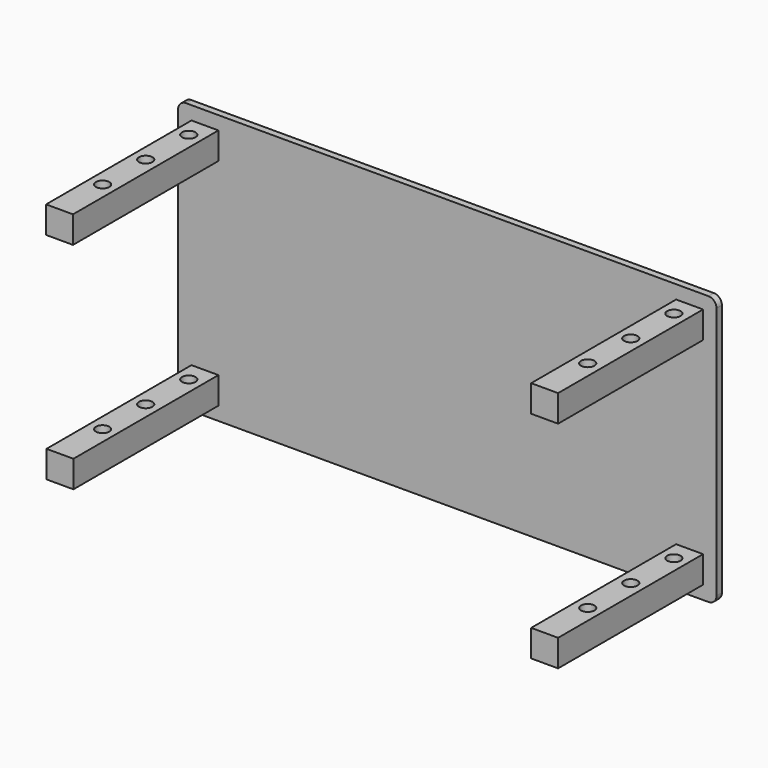
from build123d import *

# Parameters (mm, degrees)
F0_W      = 2000
F0_H      = 1000
F1_DEPTH  = 25
F2_W      = 100
F2_H      = 100
F3_DEPTH  = 700
F5_W      = 100
F5_H      = 100
F6_DEPTH  = 673
F7_D      = 50
F8_R      = 25
F9_DEPTH  = 25
F9_FACE_R = 25
F10_DEPTH = 975.001
F11_R     = 30


with BuildPart() as f1:
    # F0 (on Front) → F1 (new body)
    with BuildSketch(Plane.XZ):
        with Locations((1.290835, 11.492619)):
            Rectangle(F0_W, F0_H)
    extrude(amount=F1_DEPTH)

    # F2 (on Front) → F3 (join)
    with BuildSketch(Plane.XZ):
        with Locations((-898.709165, 411.492619)):
            Rectangle(F2_W, F2_H)
    extrude(amount=F3_DEPTH)

    # F5 (on face) → F6 (join)
    with BuildSketch(Plane.XZ.offset(25)):
        with Locations((-898.709165, -388.507381)):
            Rectangle(F5_W, F5_H)
        with Locations((901.290835, -388.507381)):
            Rectangle(F5_W, F5_H)
        with Locations((901.290835, 411.492619)):
            Rectangle(F5_W, F5_H)
    extrude(amount=F6_DEPTH)

    # F7 (through all)
    with Locations(Plane.XY.offset(461.492619)):
        with Locations((-898.709165, -500)):
            Hole(F7_D / 2)

    # F8 (on face) → F9 (join)
    with BuildSketch(Plane.XY.offset(461.492619)):
        with Locations((-898.709165, -300)):
            Circle(F8_R)
        with Locations((-898.709165, -100)):
            Circle(F8_R)
        with Locations((-898.709165, -500)):
            Circle(F8_R)
        with Locations((901.290835, -498)):
            Circle(F8_R)
        with Locations((901.290835, -298)):
            Circle(F8_R)
        with Locations((901.290835, -98)):
            Circle(F8_R)
    extrude(amount=F9_DEPTH)

    # F9_face (on face) → F10 (cut, through all)
    with BuildSketch(Plane(origin=(-898.709165, -300, 486.492619), x_dir=(1, 0, 0), z_dir=(0, 0, 1))):
        Circle(F9_FACE_R)
        with Locations((0, 200)):
            Circle(F9_FACE_R)
        with Locations((0, -200)):
            Circle(F9_FACE_R)
        with Locations((1800, 202)):
            Circle(F9_FACE_R)
        with Locations((1800, 2)):
            Circle(F9_FACE_R)
        with Locations((1800, -198)):
            Circle(F9_FACE_R)
    extrude(amount=-F10_DEPTH, mode=Mode.SUBTRACT)

    # F11
    f11_edges = [f1.edges().sort_by_distance(p)[0] for p in [
        (-998.709165, -12.5, 511.492619),
        (-998.709165, -12.5, -488.507381),
        (1001.290835, -12.5, -488.507381),
        (1001.290835, -12.5, 511.492619),
    ]]
    fillet(f11_edges, radius=F11_R)


solid = f1.part
